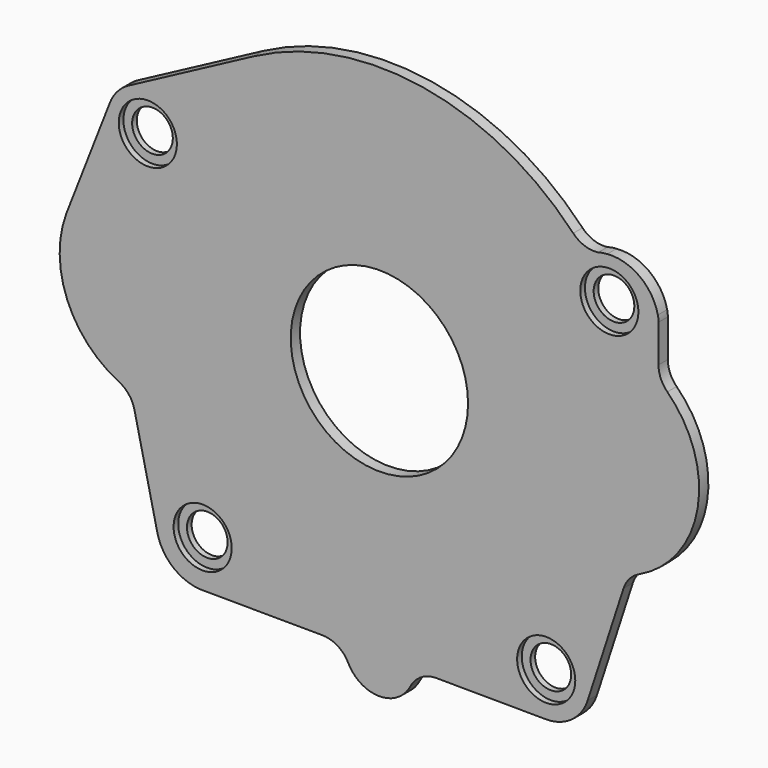
from build123d import *

# Parameters (mm, degrees)
F0_R     = 3.5
F0_R_2   = 15.25
F1_DEPTH = 2
F2_R     = 28.6
F3_DEPTH = 2
F4_R     = 5
F5_DEPTH = 1


with BuildPart() as f1:
    # F0 (on Front) → F1 (new body)
    with BuildSketch(Plane.XZ):
        with BuildLine():
            Line((-21.58884, 40.619232), (-42.861558, 29.312929))
            ThreePointArc((-42.861558, 29.312929), (-44.997448, 27.729855), (-46.388978, 25.46451))
            Line((-46.388978, 25.46451), (-53.672966, 6.783229))
            Line((-53.672966, 6.783229), (-53.864057, 6.293138))
            ThreePointArc((-53.864057, 6.293138), (-53.705851, -6.701832), (-44.839242, -16.20328))
            ThreePointArc((-44.839242, -16.20328), (-43.103725, -17.591673), (-42.141379, -19.595055))
            Line((-42.141379, -19.595055), (-38.205048, -36.897988))
            ThreePointArc((-38.205048, -36.897988), (-35.569679, -41.232337), (-30.857548, -43.110523))
            Line((-30.857548, -43.110523), (-30.043042, -43.115206))
            Line((-30.043042, -43.115206), (-9.797797, -43.231604))
            ThreePointArc((-9.797797, -43.231604), (-7.190907, -43.98259), (-5.359933, -45.984437))
            ThreePointArc((-5.359933, -45.984437), (-0.034496, -49.287837), (5.328573, -46.04589))
            ThreePointArc((5.328573, -46.04589), (7.182444, -44.065228), (9.797797, -43.344267))
            Line((9.797797, -43.344267), (28.65177, -43.452666))
            ThreePointArc((28.65177, -43.452666), (33.085897, -42.033009), (35.827873, -38.270234))
            Line((35.827873, -38.270234), (41.995789, -19.285684))
            ThreePointArc((41.995789, -19.285684), (43.003835, -17.520371), (44.631304, -16.302245))
            ThreePointArc((44.631304, -16.302245), (54.75181, -2.9788), (49.534597, 12.918354))
            ThreePointArc((49.534597, 12.918354), (48.411586, 14.558602), (48.01643, 16.506786))
            Line((48.01643, 16.506786), (48.01643, 22.9754))
            ThreePointArc((48.01643, 22.9754), (47.987621, 23.511359), (47.901529, 24.041142))
            ThreePointArc((47.901529, 24.041142), (44.750848, 28.885488), (39.182116, 30.429409))
            ThreePointArc((39.182116, 30.429409), (38.635854, 30.360699), (38.095468, 30.255318))
            ThreePointArc((38.095468, 30.255318), (37.863026, 30.207571), (37.628581, 30.170906))
            ThreePointArc((37.628581, 30.170906), (35.306998, 30.413689), (33.348619, 31.683901))
            ThreePointArc((33.348619, 31.683901), (7.384655, 45.403379), (-21.58884, 40.619232))
        make_face()
        with Locations((-30.40436, -35.12337)):
            Circle(F0_R, mode=Mode.SUBTRACT)
        with Locations((28.69489, -35.95279)):
            Circle(F0_R, mode=Mode.SUBTRACT)
        with Locations((-39.83717, 23)):
            Circle(F0_R, mode=Mode.SUBTRACT)
        Circle(F0_R_2, mode=Mode.SUBTRACT)
        with Locations((39.55455, 23.39376)):
            Circle(F0_R, mode=Mode.SUBTRACT)
        with BuildLine():
            Line((-53.864057, 6.293138), (-53.672966, 6.783229))
            ThreePointArc((-53.672966, 6.783229), (-53.770302, 6.538881), (-53.864057, 6.293138))
        make_face()
        with BuildLine():
            ThreePointArc((39.182116, 30.429409), (38.398103, 30.343702), (37.628581, 30.170906))
            ThreePointArc((37.628581, 30.170906), (37.863026, 30.207571), (38.095468, 30.255318))
            ThreePointArc((38.095468, 30.255318), (38.635854, 30.360699), (39.182116, 30.429409))
        make_face()
        with BuildLine():
            Line((-30.043042, -43.115206), (-30.857548, -43.110523))
            ThreePointArc((-30.857548, -43.110523), (-30.450354, -43.123238), (-30.043042, -43.115206))
        make_face()
    extrude(amount=F1_DEPTH)

    # F2 (on face) → F3 (join)
    with BuildSketch(Plane(origin=(0, 0, 0), x_dir=(-1, 0, 0), z_dir=(0, 1, 0))):
        with BuildLine():
            ThreePointArc((-37.097917, 9.914867), (-48.4, 0), (-37.097917, -9.914867))
            ThreePointArc((-37.097917, -9.914867), (38.4, 0), (-37.097917, 9.914867))
        make_face()
        Circle(F2_R, mode=Mode.SUBTRACT)
    extrude(amount=F3_DEPTH)

    # F4 (on face) → F5 (cut)
    with BuildSketch(Plane.XZ.offset(2)):
        with Locations((-39.83717, 23)):
            Circle(F4_R)
        with Locations((39.55455, 23.39376)):
            Circle(F4_R)
        with Locations((28.69489, -35.95279)):
            Circle(F4_R)
        with Locations((-30.40436, -35.12337)):
            Circle(F4_R)
    extrude(amount=-F5_DEPTH, mode=Mode.SUBTRACT)


solid = f1.part
